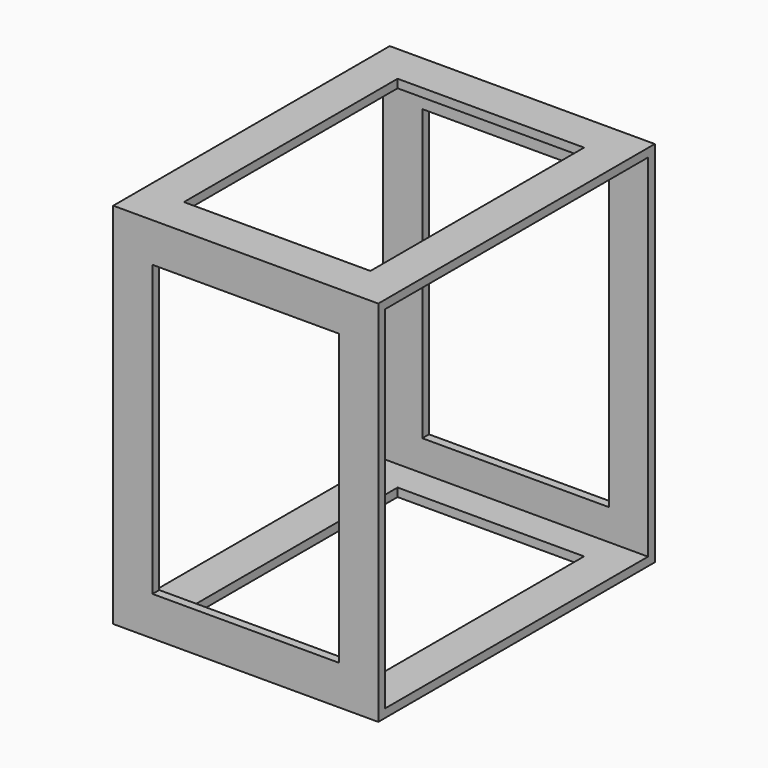
from build123d import *

# Parameters (mm, degrees)
SKETCH_W        = 782.5
SKETCH_H        = 833.8
SKETCH_W_2      = 744.4
SKETCH_H_2      = 795.7
PAD_DEPTH       = 600
SKETCH001_W     = 656
SKETCH001_H     = 422.2
POCKET_DEPTH    = 782.501
SKETCH002_W     = 604.7
SKETCH002_H     = 422.2
POCKET001_DEPTH = 833.801


with BuildPart() as part:
    # Sketch → Pad (new body)
    with BuildSketch(Plane.YZ):
        with Locations((-391.25, 416.9)):
            Rectangle(SKETCH_W, SKETCH_H)
        with Locations((-391.25, 416.9)):
            Rectangle(SKETCH_W_2, SKETCH_H_2, mode=Mode.SUBTRACT)
    extrude(amount=PAD_DEPTH)

    # Sketch001 (on Face4 of Pad) → Pocket (cut, through all)
    with BuildSketch(Plane(origin=(0, -782.5, 0), x_dir=(0, 0, -1), z_dir=(0, -1, 0))):
        with Locations((-416.9, 300)):
            Rectangle(SKETCH001_W, SKETCH001_H)
    extrude(amount=-POCKET_DEPTH, mode=Mode.SUBTRACT)

    # Sketch002 (on Face1 of Pocket) → Pocket001 (cut, through all)
    with BuildSketch(Plane(origin=(0, 0, 833.8), x_dir=(0, -1, 0), z_dir=(0, 0, 1))):
        with Locations((391.25, 300)):
            Rectangle(SKETCH002_W, SKETCH002_H)
    extrude(amount=-POCKET001_DEPTH, mode=Mode.SUBTRACT)


solid = part.part
